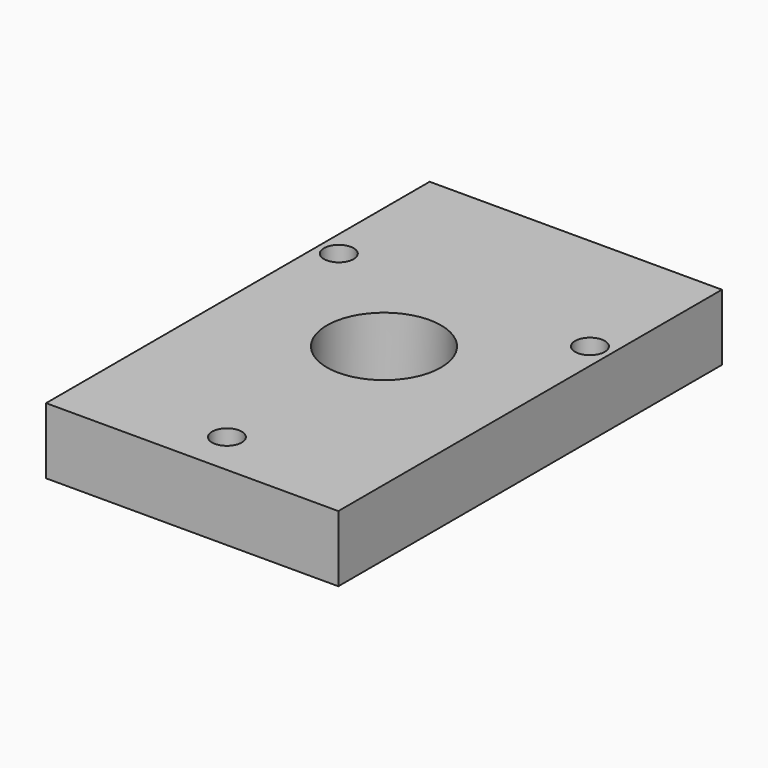
from build123d import *

# Parameters (mm, degrees)
F0_W     = 64
F0_H     = 105
F0_R     = 3.25
F0_R_2   = 12.5
F1_DEPTH = 14.5


with BuildPart() as f1:
    # F0 (on Top) → F1 (new body)
    with BuildSketch(Plane.XY):
        with Locations((0, -22)):
            Rectangle(F0_W, F0_H)
        with Locations((0, -65)):
            Circle(F0_R, mode=Mode.SUBTRACT)
        with Locations((-27.5, 0)):
            Circle(F0_R, mode=Mode.SUBTRACT)
        with Locations((0, -22)):
            Circle(F0_R_2, mode=Mode.SUBTRACT)
        with Locations((27.5, 0)):
            Circle(F0_R, mode=Mode.SUBTRACT)
    extrude(amount=F1_DEPTH)


solid = f1.part
